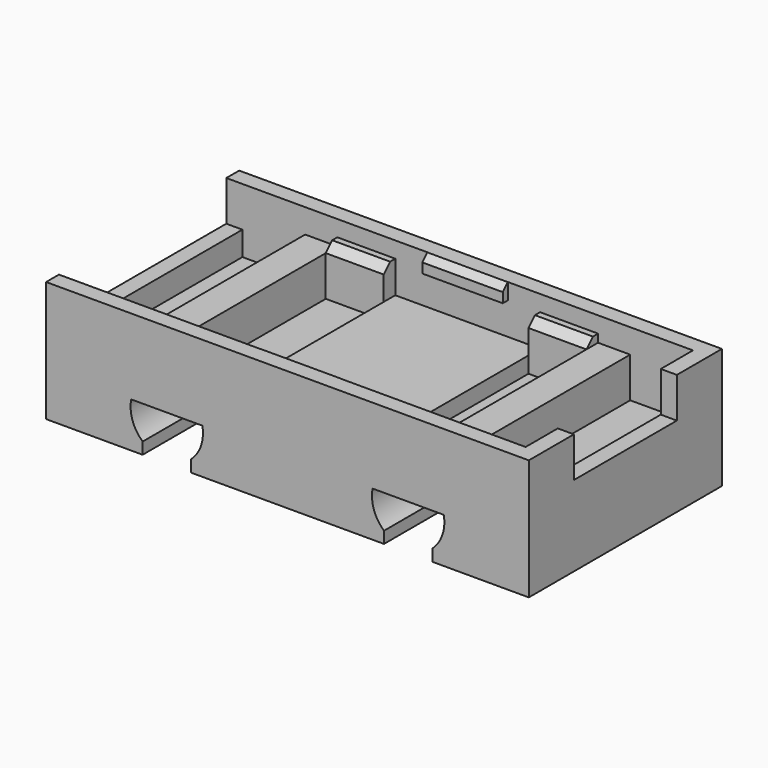
from build123d import *

# Parameters (mm, degrees)
SKETCH_W            = 30
SKETCH_H            = 15
PAD_DEPTH           = 3.5
POCKET_DEPTH        = 15.001
LINEARPATTERN_COUNT = 2
LINEARPATTERN_PITCH = 15
SKETCH002_W         = 30
SKETCH002_H         = 15
SKETCH002_W_2       = 28
SKETCH002_H_2       = 13
PAD001_DEPTH        = 4
SKETCH003_W         = 9
SKETCH003_H         = 13
PAD002_DEPTH        = 1
SKETCH004_W         = 2
SKETCH004_H         = 13
PAD003_DEPTH        = 2.5
SKETCH005_W         = 3.6
SKETCH005_H         = 0.9
PAD004_DEPTH        = 3
CHAMFER_SIZE        = 0.5
SKETCH006_W         = 13
SKETCH006_H         = 2.5
POCKET001_DEPTH     = 1
SKETCH007_W         = 8
SKETCH007_H         = 2.5
POCKET002_DEPTH     = 1
SKETCH008_W         = 5
SKETCH008_H         = 1
PAD005_DEPTH        = 0.4
CHAMFER001_SIZE     = 0.39


with BuildPart() as part:
    # Sketch → Pad (new body)
    with BuildSketch(Plane.XY):
        Rectangle(SKETCH_W, SKETCH_H)
    extrude(amount=PAD_DEPTH)

    # Sketch001 (on Face3 of Pad) → Pocket (cut, through all)
    with BuildSketch(Plane.XZ.offset(7.5)):
        with BuildLine():
            Line((-9, 0), (-9, 0.722949))
            ThreePointArc((-9.714159, 2.8), (-9.62774, 1.668412), (-9, 0.722949))
            Line((-9.714159, 2.8), (-5.285841, 2.8))
            ThreePointArc((-6, 0.722949), (-5.37226, 1.668412), (-5.285841, 2.8))
            Line((-6, 0), (-6, 0.722949))
            Line((-9, 0), (-6, 0))
        make_face()
    pocket = extrude(amount=-POCKET_DEPTH, mode=Mode.SUBTRACT)

    # LinearPattern: Pocket ×2
    with Locations(*[(i * LINEARPATTERN_PITCH, 0, 0) for i in range(1, LINEARPATTERN_COUNT)]):
        add(pocket, mode=Mode.SUBTRACT)

    # Sketch002 (on Face16 of LinearPattern) → Pad001 (join)
    with BuildSketch(Plane.XY.offset(3.5)):
        Rectangle(SKETCH002_W, SKETCH002_H)
        Rectangle(SKETCH002_W_2, SKETCH002_H_2, mode=Mode.SUBTRACT)
    extrude(amount=PAD001_DEPTH)

    # Sketch003 (on Face27 of Pad001) → Pad002 (join)
    with BuildSketch(Plane.XY.offset(3.5)):
        Rectangle(SKETCH003_W, SKETCH003_H)
    extrude(amount=PAD002_DEPTH)

    # Sketch004 (on Face27 of Pad002) → Pad003 (join)
    with BuildSketch(Plane.XY.offset(3.5)):
        with Locations((-9.1, 0)):
            Rectangle(SKETCH004_W, SKETCH004_H)
        with Locations((9.1, 0)):
            Rectangle(SKETCH004_W, SKETCH004_H)
    extrude(amount=PAD003_DEPTH)

    # Sketch005 (on Face27 of Pad003) → Pad004 (join)
    with BuildSketch(Plane.XY.offset(3.5)):
        with Locations((-6.3, 6.05)):
            Rectangle(SKETCH005_W, SKETCH005_H)
        with Locations((6.3, 6.05)):
            Rectangle(SKETCH005_W, SKETCH005_H)
        with Locations((-6.3, -6.05)):
            Rectangle(SKETCH005_W, SKETCH005_H)
        with Locations((6.3, -6.05)):
            Rectangle(SKETCH005_W, SKETCH005_H)
    extrude(amount=PAD004_DEPTH)

    # Chamfer
    chamfer_edges = [part.edges().sort_by_distance(p)[0] for p in [
        (-6.3, 5.6, 6.5),
        (6.3, 5.6, 6.5),
        (-6.3, -5.6, 6.5),
        (6.3, -5.6, 6.5),
    ]]
    chamfer(chamfer_edges, length=CHAMFER_SIZE)

    # Sketch006 (on Face35 of Chamfer) → Pocket001 (cut)
    with BuildSketch(Plane(origin=(-15, 0, 0), x_dir=(0, -1, 0), z_dir=(-1, 0, 0))):
        with Locations((0, 6.25)):
            Rectangle(SKETCH006_W, SKETCH006_H)
    extrude(amount=-POCKET001_DEPTH, mode=Mode.SUBTRACT)

    # Sketch007 (on Face29 of Pocket001) → Pocket002 (cut)
    with BuildSketch(Plane.YZ.offset(15)):
        with Locations((0, 6.25)):
            Rectangle(SKETCH007_W, SKETCH007_H)
    extrude(amount=-POCKET002_DEPTH, mode=Mode.SUBTRACT)

    # Sketch008 (on Face21 of Pocket002) → Pad005 (join)
    with BuildSketch(Plane.XZ.offset(-6.5)):
        with Locations((0, 7)):
            Rectangle(SKETCH008_W, SKETCH008_H)
    pad005 = extrude(amount=PAD005_DEPTH)

    # Mirrored: Pad005 across XZ
    add(pad005.mirror(Plane.XZ))

    # Chamfer001
    chamfer001_edges = [part.edges().sort_by_distance(p)[0] for p in [
        (0, -6.1, 7.5),
        (0, 6.1, 7.5),
    ]]
    chamfer(chamfer001_edges, length=CHAMFER001_SIZE)


solid = part.part
